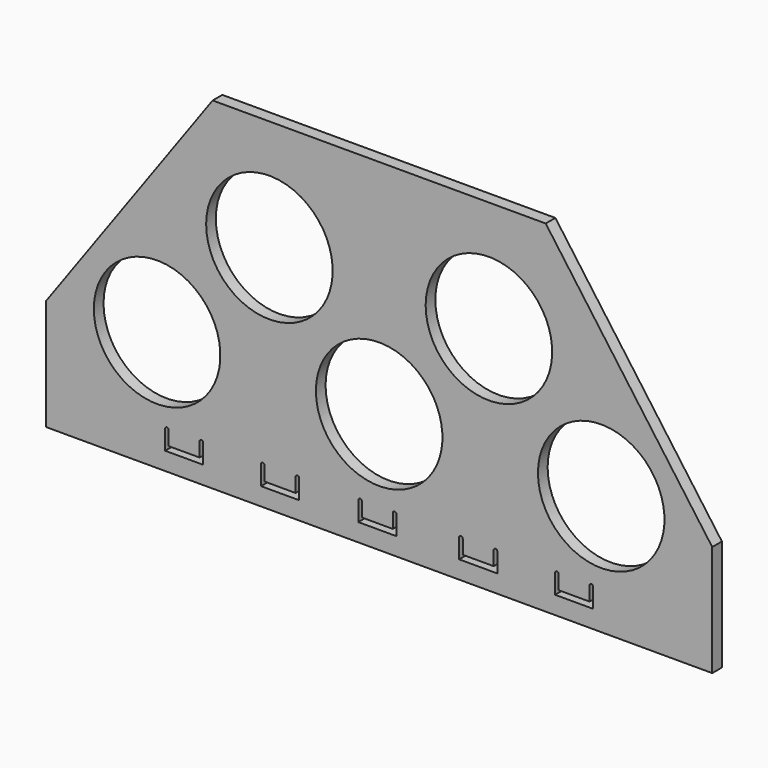
from build123d import *

# Parameters (mm, degrees)
F1_DEPTH  = 5.5372
F3_D      = 57.8866
F5_DEPTH  = 5.5382
F7_DEPTH  = 17.76331
F9_DEPTH  = 25.4
F11_DEPTH = 25.4
F13_DEPTH = 25.4


with BuildPart() as f1:
    # F0 (on Front) → F1 (new body)
    with BuildSketch(Plane.XZ):
        Polygon((85.176131, 104.177512), (-67.223869, 104.177512), (-143.423869, -1.364378), (-143.423869, -52.164378), (161.376131, -52.164378), (161.376131, -1.364378), align=None)
    extrude(amount=F1_DEPTH)

    # F3 (through all)
    with Locations(Plane.XZ.offset(5.5372)):
        with Locations((-41.244327, 53.377512), (59.196589, 53.377512), (110.576131, 2.577512), (8.976131, 2.577512), (-92.623869, 2.577512)):
            Hole(F3_D / 2)

    # F4 (on face) → F5 (cut, through all)
    with BuildSketch(Plane.XZ.offset(5.5372)):
        with BuildLine():
            ThreePointArc((-87.315269, -35.095578), (-88.140769, -34.270078), (-88.966269, -35.095578))
            Line((-88.966269, -35.095578), (-88.966269, -43.985578))
            Line((-88.966269, -43.985578), (-71.516469, -43.985578))
            Line((-71.516469, -43.985578), (-71.516469, -35.095578))
            ThreePointArc((-71.516469, -35.095578), (-72.341969, -34.270078), (-73.167469, -35.095578))
            Line((-73.167469, -35.095578), (-73.167469, -41.597978))
            Line((-73.167469, -41.597978), (-87.315269, -41.597978))
            Line((-87.315269, -41.597978), (-87.315269, -35.095578))
        make_face()
    extrude(amount=-F5_DEPTH, mode=Mode.SUBTRACT)

    # F6 (on face) → F7 (cut)
    with BuildSketch(Plane.XZ.offset(5.5372)):
        with BuildLine():
            ThreePointArc((-43.424069, -35.095578), (-44.249569, -34.270078), (-45.075069, -35.095578))
            Line((-45.075069, -35.095578), (-45.075069, -43.985578))
            Line((-45.075069, -43.985578), (-27.625269, -43.985578))
            Line((-27.625269, -43.985578), (-27.625269, -35.095578))
            ThreePointArc((-27.625269, -35.095578), (-28.450769, -34.270078), (-29.276269, -35.095578))
            Line((-29.276269, -35.095578), (-29.276269, -41.597978))
            Line((-29.276269, -41.597978), (-43.424069, -41.597978))
            Line((-43.424069, -41.597978), (-43.424069, -35.095578))
        make_face()
    extrude(amount=-F7_DEPTH, mode=Mode.SUBTRACT)

    # F8 (on face) → F9 (cut)
    with BuildSketch(Plane.XZ.offset(5.5372)):
        with BuildLine():
            ThreePointArc((1.076731, -35.095578), (0.251231, -34.270078), (-0.574269, -35.095578))
            Line((-0.574269, -35.095578), (-0.574269, -43.985578))
            Line((-0.574269, -43.985578), (16.875531, -43.985578))
            Line((16.875531, -43.985578), (16.875531, -35.095578))
            ThreePointArc((16.875531, -35.095578), (16.050031, -34.270078), (15.224531, -35.095578))
            Line((15.224531, -35.095578), (15.224531, -41.597978))
            Line((15.224531, -41.597978), (1.076731, -41.597978))
            Line((1.076731, -41.597978), (1.076731, -35.095578))
        make_face()
    extrude(amount=-F9_DEPTH, mode=Mode.SUBTRACT)

    # F10 (on face) → F11 (cut)
    with BuildSketch(Plane.XZ.offset(5.5372)):
        with BuildLine():
            ThreePointArc((47.228531, -35.095578), (46.403031, -34.270078), (45.577531, -35.095578))
            Line((45.577531, -35.095578), (45.577531, -43.985578))
            Line((45.577531, -43.985578), (63.027331, -43.985578))
            Line((63.027331, -43.985578), (63.027331, -35.095578))
            ThreePointArc((63.027331, -35.095578), (62.201831, -34.270078), (61.376331, -35.095578))
            Line((61.376331, -35.095578), (61.376331, -41.597978))
            Line((61.376331, -41.597978), (47.228531, -41.597978))
            Line((47.228531, -41.597978), (47.228531, -35.095578))
        make_face()
    extrude(amount=-F11_DEPTH, mode=Mode.SUBTRACT)

    # F12 (on face) → F13 (cut)
    with BuildSketch(Plane.XZ.offset(5.5372)):
        with BuildLine():
            ThreePointArc((91.119731, -35.095578), (90.294231, -34.270078), (89.468731, -35.095578))
            Line((89.468731, -35.095578), (89.468731, -43.985578))
            Line((89.468731, -43.985578), (106.918531, -43.985578))
            Line((106.918531, -43.985578), (106.918531, -35.095578))
            ThreePointArc((106.918531, -35.095578), (106.093031, -34.270078), (105.267531, -35.095578))
            Line((105.267531, -35.095578), (105.267531, -41.597978))
            Line((105.267531, -41.597978), (91.119731, -41.597978))
            Line((91.119731, -41.597978), (91.119731, -35.095578))
        make_face()
    extrude(amount=-F13_DEPTH, mode=Mode.SUBTRACT)


solid = f1.part
